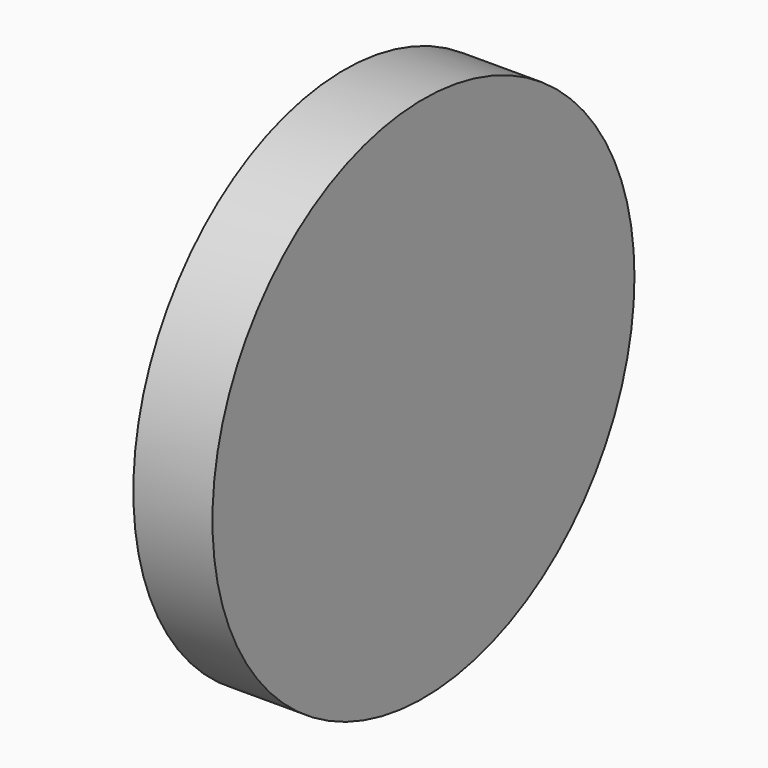
from build123d import *

# Parameters (mm, degrees)
F0_R     = 40
F1_DEPTH = 12
F2_R     = 1
F3_DEPTH = 5


with BuildPart() as f1:
    # F0 (on Right) → F1 (new body)
    with BuildSketch(Plane.YZ):
        Circle(F0_R)
    extrude(amount=F1_DEPTH)

    # F2 (on face) → F3 (cut)
    with BuildSketch(Plane(origin=(0, 0, 0), x_dir=(0, -1, 0), z_dir=(-1, 0, 0))):
        Circle(F2_R)
    extrude(amount=-F3_DEPTH, mode=Mode.SUBTRACT)


solid = f1.part
